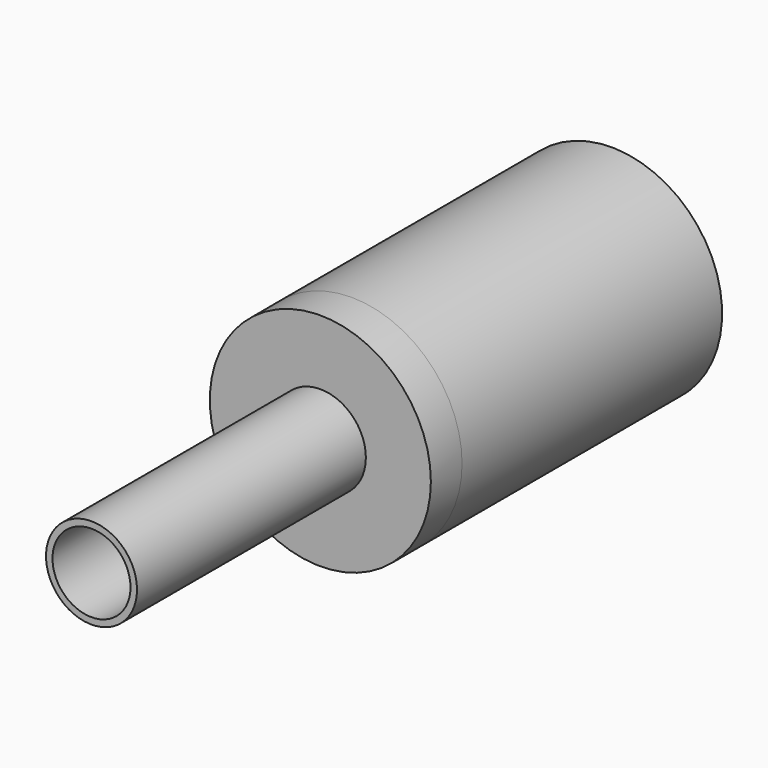
from build123d import *

# Parameters (mm, degrees)
F0_R     = 3.5
F0_R_2   = 3
F1_DEPTH = 25
F2_R     = 8.5
F2_R_2   = 3
F3_DEPTH = 3
F4_R     = 8.5
F4_R_2   = 8
F5_DEPTH = 25


with BuildPart() as f1:
    # F0 (on Front) → F1 (new body)
    with BuildSketch(Plane.XZ):
        Circle(F0_R)
        Circle(F0_R_2, mode=Mode.SUBTRACT)
    extrude(amount=F1_DEPTH)

    # F2 (on Front) → F3 (join)
    with BuildSketch(Plane.XZ):
        Circle(F2_R)
        Circle(F2_R_2, mode=Mode.SUBTRACT)
    extrude(amount=F3_DEPTH)

    # F4 (on face) → F5 (join)
    with BuildSketch(Plane(origin=(0, 0, 0), x_dir=(-1, 0, 0), z_dir=(0, 1, 0))):
        Circle(F4_R)
        Circle(F4_R_2, mode=Mode.SUBTRACT)
    extrude(amount=F5_DEPTH)


solid = f1.part
